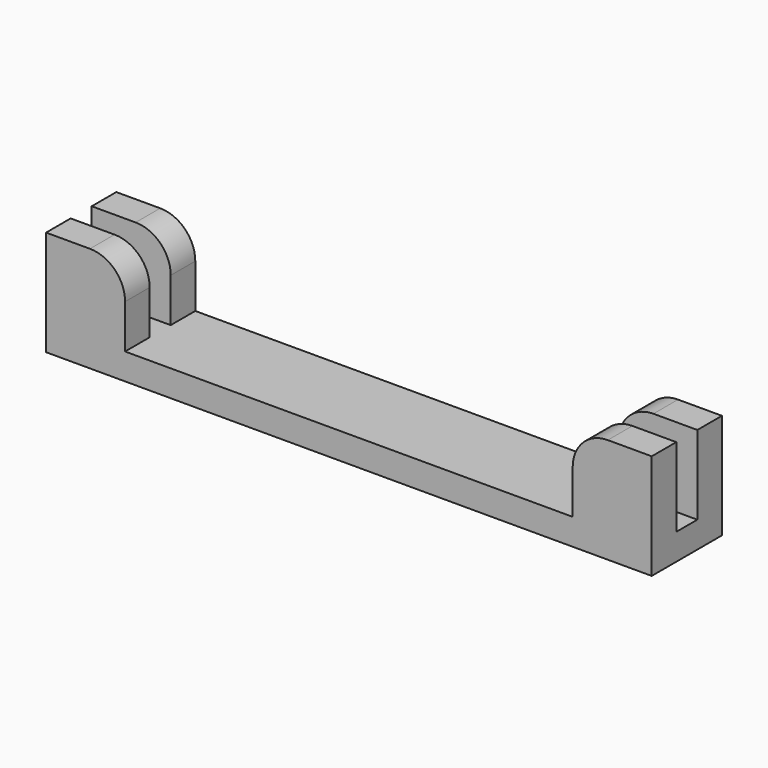
from build123d import *

# Parameters (mm, degrees)
F2_W     = 69
F2_H     = 10
F3_DEPTH = 3
F4_W     = 9
F4_H     = 3.5
F5_DEPTH = 9
F6_R     = 4


with BuildPart() as f3:
    # F2 (on Top) → F3 (new body)
    with BuildSketch(Plane.XY):
        Rectangle(F2_W, F2_H)
    extrude(amount=F3_DEPTH)

    # F4 (on face) → F5 (join)
    with BuildSketch(Plane.XY.offset(3)):
        with Locations((-30, 3.25)):
            Rectangle(F4_W, F4_H)
    extrude(amount=F5_DEPTH)

    # F6
    f6_edges = [f3.edges().sort_by_distance(p)[0] for p in [
        (-25.5, 3.25, 12),
    ]]
    fillet(f6_edges, radius=F6_R)

    # F7: F3 across plane


with BuildPart() as f3_1:
    add(f3.part)
    add(f3.part.mirror(Plane.YZ))

    # F8: F3 across plane


with BuildPart() as f3_2:
    add(f3_1.part)
    add(f3_1.part.mirror(Plane.XZ))


solid = f3_2.part
